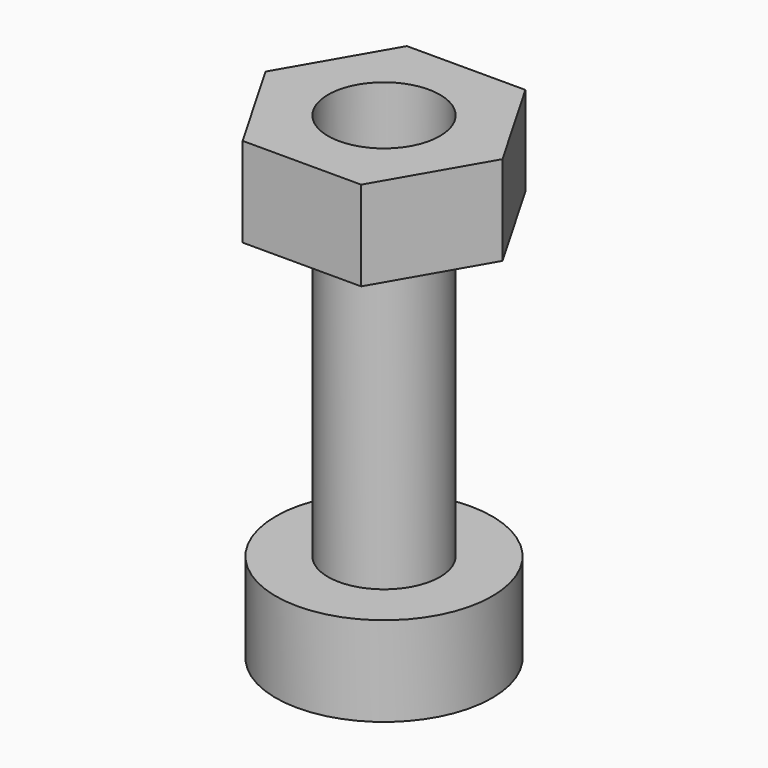
from build123d import *

# Parameters (mm, degrees)
F0_R     = 1.5
F1_DEPTH = 10.4
F0_R_2   = 2.9
F2_DEPTH = 2.4
F3_R     = 1.5
F4_DEPTH = 2.4


with BuildPart() as f1:
    # F0 (on Top) → F1 (new body)
    with BuildSketch(Plane.XY):
        Circle(F0_R)
    extrude(amount=F1_DEPTH)

    # F0 (on Top) → F2 (join)
    with BuildSketch(Plane.XY):
        Circle(F0_R_2)
        Circle(F0_R, mode=Mode.SUBTRACT)
    extrude(amount=F2_DEPTH)


with BuildPart() as f4:
    # F3 (on face) → F4 (new body)
    with BuildSketch(Plane.XY.offset(10.4)):
        Polygon((3.175426, 0), (1.587713, 2.75), (-1.587713, 2.75), (-3.175426, 0), (-1.587713, -2.75), (1.587713, -2.75), align=None)
        Circle(F3_R, mode=Mode.SUBTRACT)
    extrude(amount=F4_DEPTH)


solid = Compound([f1.part, f4.part])
